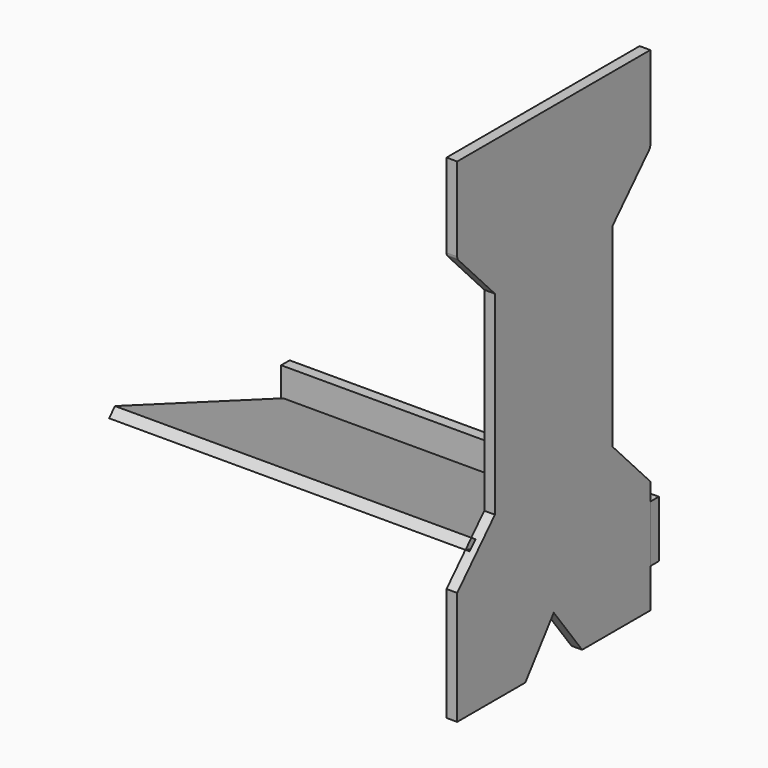
from build123d import *

# Parameters (mm, degrees)
F1_DEPTH = 19.05
F3_DEPTH = 7.62
F4_W     = 660.4
F4_H     = 101.6
F5_DEPTH = 19.05
F7_DEPTH = 637.54


with BuildPart() as f1:
    # F0 (on Right) → F1 (new body)
    with BuildSketch(Plane.YZ):
        with BuildLine():
            Line((215.9, -72.799858), (215.9, 76.835))
            Line((215.9, 76.835), (-215.9, 76.835))
            Line((-215.9, 76.835), (-215.9, -73.258757))
            ThreePointArc((-215.9, -73.258757), (-215.261906, -76.580452), (-213.43846, -79.429289))
            Line((-213.43846, -79.429289), (-131.548995, -165.735))
            Line((-131.548995, -165.735), (-131.548995, -513.715))
            Line((-131.548995, -513.715), (-215.9, -602.615))
            Line((-215.9, -602.615), (-215.9, -805.815))
            Line((-215.9, -805.815), (-63.5, -805.815))
            Line((-63.5, -805.815), (0, -721.487939))
            Line((0, -721.487939), (63.5, -805.815))
            Line((63.5, -805.815), (215.9, -805.815))
            Line((215.9, -805.815), (215.9, -602.615))
            Line((215.9, -602.615), (131.548995, -513.715))
            Line((131.548995, -513.715), (131.548995, -165.735))
            Line((131.548995, -165.735), (213.122599, -79.762185))
            ThreePointArc((213.122599, -79.762185), (215.180027, -76.547789), (215.9, -72.799858))
        make_face()
    extrude(amount=F1_DEPTH)

    # F2 (on face) → F3 (cut)
    with BuildSketch(Plane(origin=(0, 0, 0), x_dir=(0, -1, 0), z_dir=(-1, 0, 0))):
        Polygon((-215.9, -685.165), (-215.9, -704.215), (173.724498, -558.165), (160.61232, -544.345691), align=None)
    extrude(amount=-F3_DEPTH, mode=Mode.SUBTRACT)


with BuildPart() as f5:
    # F4 (on face) → F5 (new body)
    with BuildSketch(Plane(origin=(0, 215.9, 0), x_dir=(-1, 0, 0), z_dir=(0, 1, 0))):
        with Locations((311.15, -685.165)):
            Rectangle(F4_W, F4_H)
    extrude(amount=F5_DEPTH)


with BuildPart() as f7:
    # F6 (on face) → F7 (new body)
    with BuildSketch(Plane(origin=(0, 0, 0), x_dir=(0, -1, 0), z_dir=(-1, 0, 0))):
        Polygon((160.61232, -544.345691), (-215.9, -685.165), (-215.9, -704.223394), (173.363048, -558.499187), align=None)
    extrude(amount=F7_DEPTH)


solid = Compound([f1.part, f5.part, f7.part])
